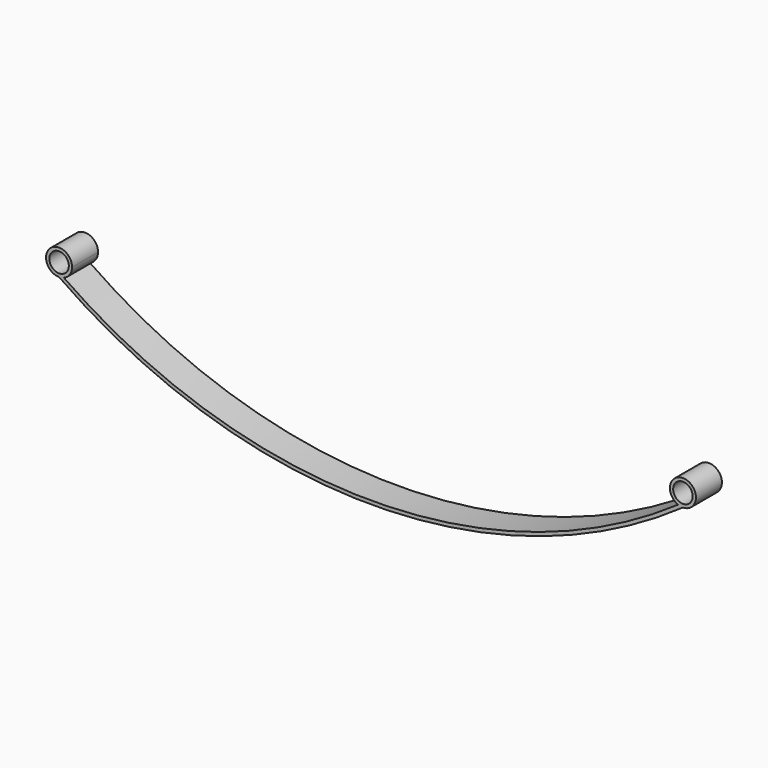
from build123d import *

# Parameters (mm, degrees)
F0_R     = 9.525
F1_DEPTH = 15.875


with BuildPart() as f1:
    # F0 (on Front) → F1 (new body, symmetric)
    with BuildSketch(Plane.XZ):
        with BuildLine():
            ThreePointArc((-300.0802086054, 0.9095984296), (-302.3966793747, 0.2294727468), (-304.8, 0))
            ThreePointArc((-304.8, 0), (-159.858648812, -71.8136278274), (0, -96.52))
            Line((0, -96.52), (0, -93.0700078607))
            ThreePointArc((0, -93.0700078607), (-157.2261889724, -69.0256273648), (-300.0802086054, 0.9095984296))
        make_face()
        with BuildLine():
            ThreePointArc((-292.1, 12.7), (-313.7802561211, 21.6802561211), (-304.8, 0))
            ThreePointArc((-304.8, 0), (-302.3966793747, 0.2294727468), (-300.0802086054, 0.9095984296))
            ThreePointArc((-300.0802086054, 0.9095984296), (-294.2826013028, 5.5814099258), (-292.1, 12.7))
        make_face()
        with Locations((-304.8, 12.7)):
            Circle(F0_R, mode=Mode.SUBTRACT)
        with BuildLine():
            Line((0, -93.0700078607), (0, -96.52))
            ThreePointArc((0, -96.52), (159.858648812, -71.8136278274), (304.8, 0))
            ThreePointArc((304.8, 0), (302.3966793747, 0.2294727468), (300.0802086054, 0.9095984296))
            ThreePointArc((300.0802086054, 0.9095984296), (157.2261889724, -69.0256273648), (0, -93.0700078607))
        make_face()
        with BuildLine():
            ThreePointArc((300.0802086054, 0.9095984296), (302.3966793747, 0.2294727468), (304.8, 0))
            ThreePointArc((304.8, 0), (313.7802561211, 3.7197438789), (317.5, 12.7))
            ThreePointArc((317.5, 12.7), (297.6814099258, 23.2173986972), (300.0802086054, 0.9095984296))
        make_face()
        with Locations((304.8, 12.7)):
            Circle(F0_R, mode=Mode.SUBTRACT)
    extrude(amount=F1_DEPTH, both=True)


solid = f1.part
